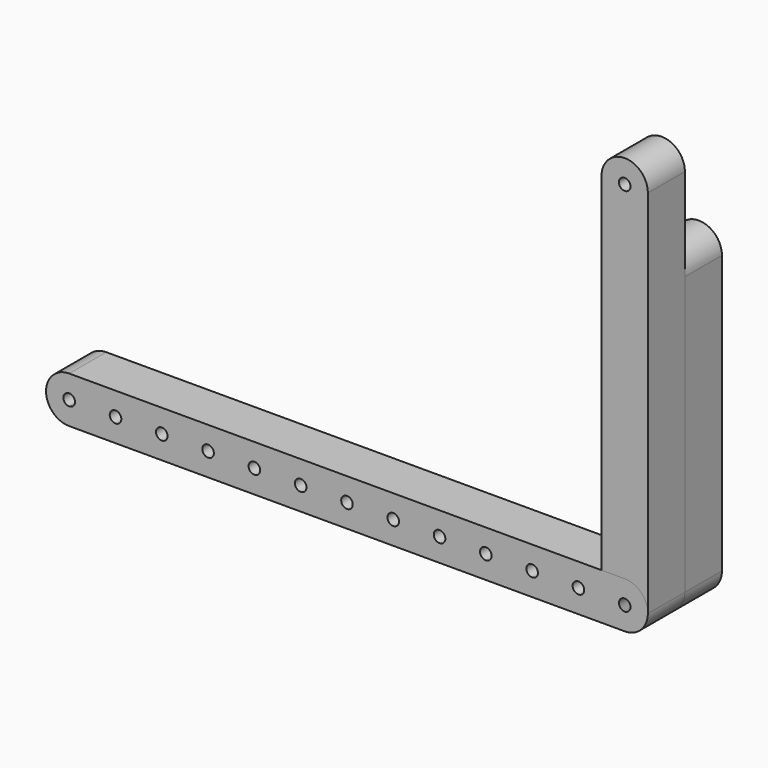
from build123d import *

# Parameters (mm, degrees)
F1_DEPTH = 25.4
F3_DEPTH = 25.4
F4_R     = 3.175
F5_DEPTH = 25.4


with BuildPart() as f1:
    # F0 (on Front) → F1 (new body)
    with BuildSketch(Plane.XZ):
        with BuildLine():
            ThreePointArc((-3.175, 0), (0, 3.175), (3.175, 0))
            Line((3.175, 0), (12.7, 0))
            Line((12.7, 0), (12.7, 203.2))
            Line((12.7, 203.2), (3.175, 203.2))
            ThreePointArc((3.175, 203.2), (0, 200.025), (-3.175, 203.2))
            Line((-3.175, 203.2), (-12.7, 203.2))
            Line((-12.7, 203.2), (-12.7, 0))
            Line((-12.7, 0), (-3.175, 0))
        make_face()
        with BuildLine():
            Line((12.7, 0), (3.175, 0))
            ThreePointArc((3.175, 0), (0, -3.175), (-3.175, 0))
            Line((-3.175, 0), (-12.7, 0))
            ThreePointArc((-12.7, 0), (0, -12.7), (12.7, 0))
        make_face()
        with BuildLine():
            Line((3.175, 203.2), (12.7, 203.2))
            ThreePointArc((12.7, 203.2), (0, 215.9), (-12.7, 203.2))
            Line((-12.7, 203.2), (-3.175, 203.2))
            ThreePointArc((-3.175, 203.2), (0, 206.375), (3.175, 203.2))
        make_face()
    extrude(amount=F1_DEPTH)


with BuildPart() as f3:
    # F2 (on Front) → F3 (new body)
    with BuildSketch(Plane.XZ):
        with BuildLine():
            ThreePointArc((-3.175, 0), (0, 3.175), (3.175, 0))
            Line((3.175, 0), (12.7, 0))
            Line((12.7, 0), (12.7, 152.4))
            Line((12.7, 152.4), (3.175, 152.4))
            ThreePointArc((3.175, 152.4), (0, 149.225), (-3.175, 152.4))
            Line((-3.175, 152.4), (-12.7, 152.4))
            Line((-12.7, 152.4), (-12.7, 0))
            Line((-12.7, 0), (-3.175, 0))
        make_face()
        with BuildLine():
            Line((12.7, 0), (3.175, 0))
            ThreePointArc((3.175, 0), (0, -3.175), (-3.175, 0))
            Line((-3.175, 0), (-12.7, 0))
            ThreePointArc((-12.7, 0), (0, -12.7), (12.7, 0))
        make_face()
        with BuildLine():
            Line((3.175, 152.4), (12.7, 152.4))
            ThreePointArc((12.7, 152.4), (0, 165.1), (-12.7, 152.4))
            Line((-12.7, 152.4), (-3.175, 152.4))
            ThreePointArc((-3.175, 152.4), (0, 155.575), (3.175, 152.4))
        make_face()
    extrude(amount=-F3_DEPTH)


with BuildPart() as f5:
    # F4 (on Front) → F5 (new body)
    with BuildSketch(Plane.XZ):
        with BuildLine():
            Line((0, 3.175), (0, 12.7))
            Line((0, 12.7), (-304.8, 12.7))
            Line((-304.8, 12.7), (-304.8, 3.175))
            ThreePointArc((-304.8, 3.175), (-302.554936, 2.245064), (-301.625, 0))
            ThreePointArc((-301.625, 0), (-302.554936, -2.245064), (-304.8, -3.175))
            Line((-304.8, -3.175), (-304.8, -12.7))
            Line((-304.8, -12.7), (0, -12.7))
            Line((0, -12.7), (0, -3.175))
            ThreePointArc((0, -3.175), (-3.175, 0), (0, 3.175))
        make_face()
        with Locations((-279.4, 0)):
            Circle(F4_R, mode=Mode.SUBTRACT)
        with Locations((-254, 0)):
            Circle(F4_R, mode=Mode.SUBTRACT)
        with Locations((-228.6, 0)):
            Circle(F4_R, mode=Mode.SUBTRACT)
        with Locations((-203.2, 0)):
            Circle(F4_R, mode=Mode.SUBTRACT)
        with Locations((-177.8, 0)):
            Circle(F4_R, mode=Mode.SUBTRACT)
        with Locations((-152.4, 0)):
            Circle(F4_R, mode=Mode.SUBTRACT)
        with Locations((-127, 0)):
            Circle(F4_R, mode=Mode.SUBTRACT)
        with Locations((-101.6, 0)):
            Circle(F4_R, mode=Mode.SUBTRACT)
        with Locations((-76.2, 0)):
            Circle(F4_R, mode=Mode.SUBTRACT)
        with Locations((-50.8, 0)):
            Circle(F4_R, mode=Mode.SUBTRACT)
        with Locations((-25.4, 0)):
            Circle(F4_R, mode=Mode.SUBTRACT)
        with BuildLine():
            ThreePointArc((0, -12.7), (12.7, 0), (0, 12.7))
            Line((0, 12.7), (0, 3.175))
            ThreePointArc((0, 3.175), (2.245064, 2.245064), (3.175, 0))
            ThreePointArc((3.175, 0), (2.245064, -2.245064), (0, -3.175))
            Line((0, -3.175), (0, -12.7))
        make_face()
        with BuildLine():
            Line((-304.8, 3.175), (-304.8, 12.7))
            ThreePointArc((-304.8, 12.7), (-317.5, 0), (-304.8, -12.7))
            Line((-304.8, -12.7), (-304.8, -3.175))
            ThreePointArc((-304.8, -3.175), (-307.975, 0), (-304.8, 3.175))
        make_face()
    extrude(amount=F5_DEPTH)


solid = Compound([f1.part, f3.part, f5.part])
